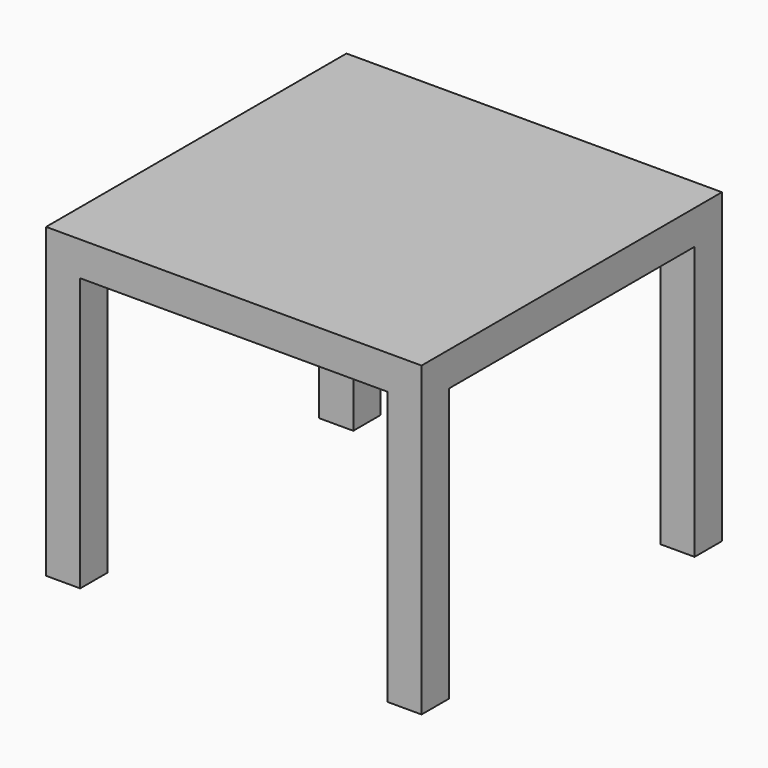
from build123d import *

# Parameters (mm, degrees)
F0_W     = 550
F0_H     = 550
F1_DEPTH = 50
F2_W     = 50
F2_H     = 50
F3_DEPTH = 400


with BuildPart() as f1:
    # F0 (on Top) → F1 (new body)
    with BuildSketch(Plane.XY):
        with Locations((3.017222, 11.457567)):
            Rectangle(F0_W, F0_H)
    extrude(amount=F1_DEPTH)

    # F2 (on face) → F3 (join)
    with BuildSketch(Plane(origin=(0, 0, 0), x_dir=(1, 0, 0), z_dir=(0, 0, -1))):
        with Locations((253.017222, 238.542433)):
            Rectangle(F2_W, F2_H)
        with Locations((-246.982778, 238.542433)):
            Rectangle(F2_W, F2_H)
        with Locations((-246.982778, -261.457567)):
            Rectangle(F2_W, F2_H)
        with Locations((253.017222, -261.457567)):
            Rectangle(F2_W, F2_H)
    extrude(amount=F3_DEPTH)


solid = f1.part
